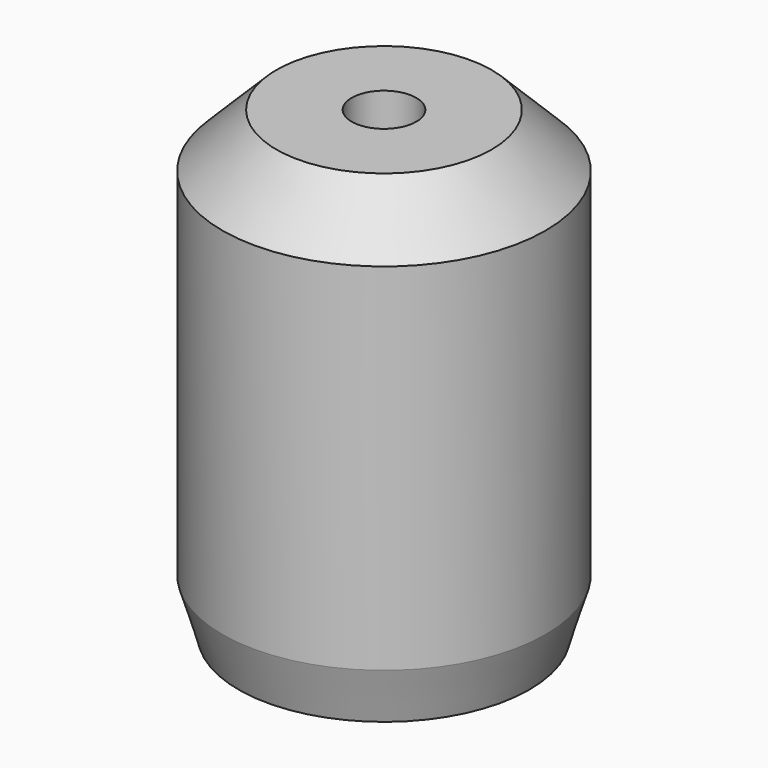
from build123d import *

# Parameters (mm, degrees)
F0_R     = 15
F1_DEPTH = 18
F2_R     = 15
F2_R_2   = 3
F3_DEPTH = 25
F4_SIZE  = 5
F5_SIZE  = 1
F6_DEPTH = 1
F7_SIZE2 = 1.5
F7_SIZE  = 5


with BuildPart() as f1:
    # F0 (on Top) → F1 (new body)
    with BuildSketch(Plane.XY):
        Circle(F0_R)
        Polygon((-7.7942286341, 0), (-3.897114317, 6.75), (3.897114317, 6.75), (7.7942286341, 0), (3.897114317, -6.75), (-3.897114317, -6.75), align=None, mode=Mode.SUBTRACT)
    extrude(amount=F1_DEPTH)

    # F2 (on face) → F3 (join)
    with BuildSketch(Plane.XY.offset(18)):
        Circle(F2_R)
        Polygon((-3.897114317, -6.75), (-7.7942286341, 0), (-3.897114317, 6.75), (3.897114317, 6.75), (7.7942286341, 0), (3.897114317, -6.75), align=None, mode=Mode.SUBTRACT)
        Polygon((-3.897114317, 6.75), (-7.7942286341, 0), (-3.897114317, -6.75), (3.897114317, -6.75), (7.7942286341, 0), (3.897114317, 6.75), align=None)
        Circle(F2_R_2, mode=Mode.SUBTRACT)
    extrude(amount=F3_DEPTH)

    # F4
    f4_edges = [f1.edges().sort_by_distance(p)[0] for p in [
        (-15, 0, 43),
    ]]
    chamfer(f4_edges, length=F4_SIZE)

    # F5
    f5_edges = [f1.edges().sort_by_distance(p)[0] for p in [
        (0, -6.75, 0),
        (5.845671, -3.375, 0),
        (5.845671, 3.375, 0),
        (0, 6.75, 0),
        (-5.845671, 3.375, 0),
        (-5.845671, -3.375, 0),
    ]]
    chamfer(f5_edges, length=F5_SIZE)

    # F2 (on face) → F6 (join)
    with BuildSketch(Plane.XY.offset(18)):
        Circle(F2_R_2)
    extrude(amount=F6_DEPTH)

    # F7
    f7_edges = [f1.edges().sort_by_distance(p)[0] for p in [
        (-15, 0, 0),
    ]]
    f7_side = f1.faces().sort_by_distance((-15, 0, 19))[0]
    chamfer(f7_edges, length=F7_SIZE, length2=F7_SIZE2, reference=f7_side)


solid = f1.part
